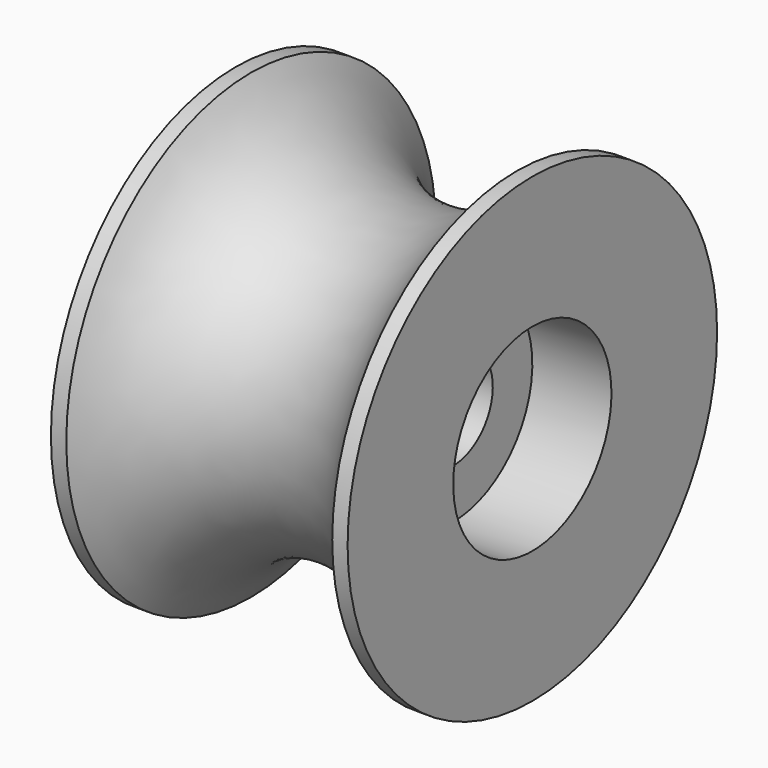
from build123d import *


with BuildPart() as f1:
    # F0 (on Front) → F1 (revolve)
    with BuildSketch(Plane.XZ):
        with BuildLine():
            Line((9.285382, 6.35), (9.285382, 3.175))
            Line((9.285382, 3.175), (18.175382, 3.175))
            Line((18.175382, 3.175), (18.175382, 6.35))
            Line((18.175382, 6.35), (23.255382, 6.35))
            Line((23.255382, 6.35), (23.255382, 14.827513))
            Line((23.255382, 14.827513), (22.268311, 14.827513))
            ThreePointArc((22.268311, 14.827513), (13.730382, 9.525), (5.192453, 14.827513))
            Line((5.192453, 14.827513), (4.205382, 14.827513))
            Line((4.205382, 14.827513), (4.205382, 6.35))
            Line((4.205382, 6.35), (9.285382, 6.35))
        make_face()
    revolve(axis=Axis((20.601824, 0, 0), (1, 0, 0)))


solid = f1.part
